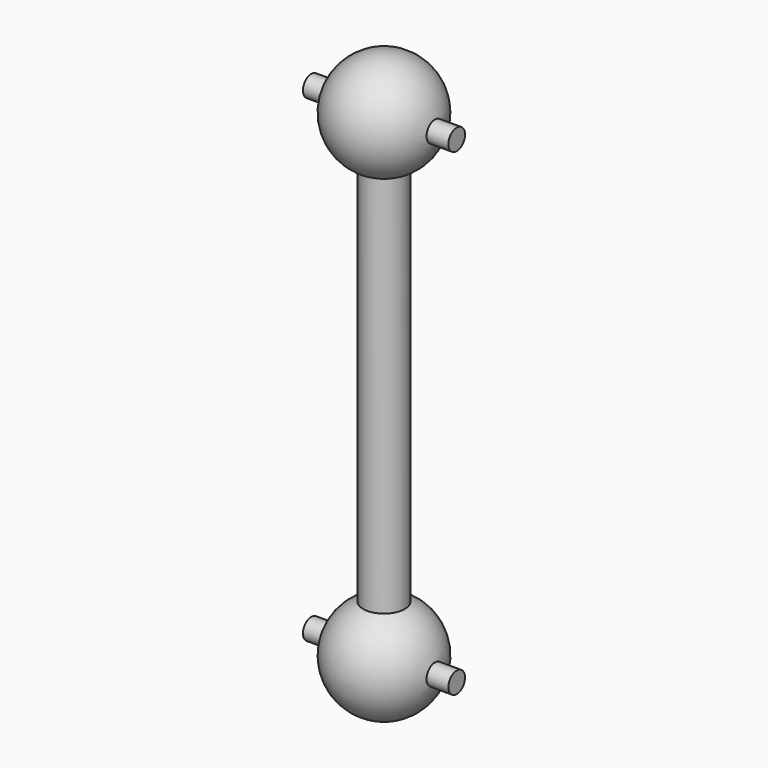
from build123d import *

# Parameters (mm, degrees)
F1_R          = 1
F2_DEPTH      = 23
F7_R          = 0.5
F8_DEPTH      = 3.5
F8_DEPTH_BACK = 3.5


with BuildPart() as f2:
    # F1 (on Top) → F2 (new body)
    with BuildSketch(Plane.XY):
        Circle(F1_R)
    extrude(amount=F2_DEPTH)

    # F3 (on Right) → F4 (revolve)
    with BuildSketch(Plane.YZ):
        with BuildLine():
            Line((-0.5, 0), (-0.5, 2.4494897428))
            ThreePointArc((-0.5, 2.4494897428), (-2.4873403825, -0.251272405), (0, -2.5))
            Line((0, -2.5), (0, 0))
            Line((0, 0), (-0.5, 0))
        make_face()
    revolve(axis=Axis((0, 0, -1.25), (0, 0, 1)))

    # F5 (on Front) → F6 (revolve)
    with BuildSketch(Plane.XZ):
        with BuildLine():
            Line((0, 23), (0, 25.5))
            ThreePointArc((0, 25.5), (-2.4472657823, 23.5107741092), (-1, 20.7087121525))
            Line((-1, 20.7087121525), (-1, 23))
            Line((-1, 23), (0, 23))
        make_face()
    revolve(axis=Axis((0, 0, 24.25), (0, 0, 1)))

    # F7 (on Right) → F8 (join, two sides)
    with BuildSketch(Plane.YZ) as f8_sk:
        Circle(F7_R)
        with Locations((0, 23)):
            Circle(F7_R)
    extrude(amount=F8_DEPTH)
    extrude(f8_sk.sketch, amount=-F8_DEPTH_BACK)


solid = f2.part
